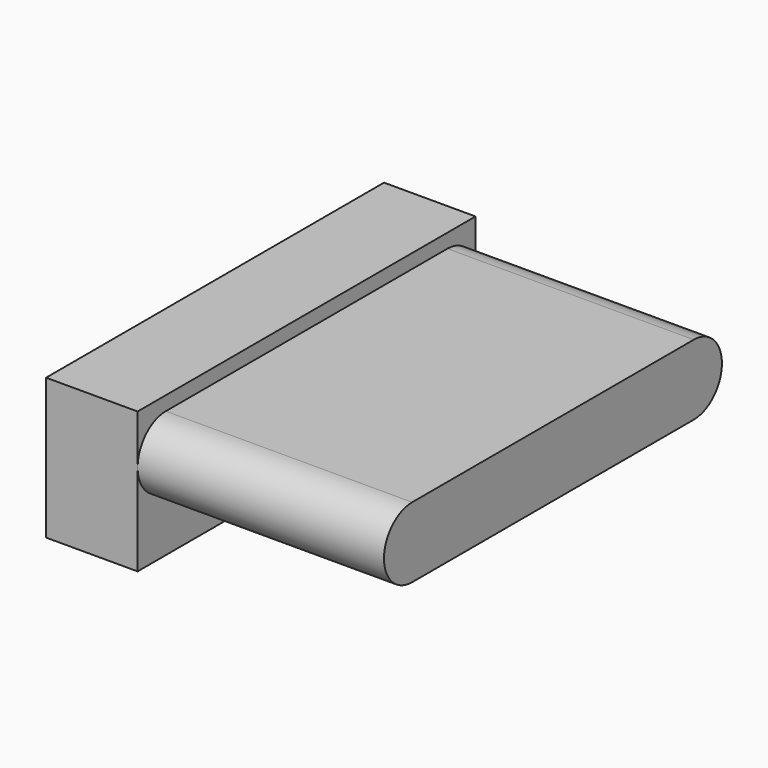
from build123d import *

# Parameters (mm, degrees)
BOX004_W                  = 1.3
BOX004_H                  = 6
BOX004_DEPTH              = 2
EXTRUDE_DEPTH             = 4
FUSION001_PLACEMENT_ANGLE = 180


with BuildPart() as cube001:
    # Box004 → Box004 (new body)
    with BuildSketch(Plane(origin=(0, 16, 0.5), x_dir=(1, 0, 0), z_dir=(0, 0, 1))):
        with Locations((0.65, 3)):
            Rectangle(BOX004_W, BOX004_H)
    extrude(amount=BOX004_DEPTH)


with BuildPart() as fusion001:
    # Sketch011 → Extrude (new body)
    with BuildSketch(Plane.YZ):
        with BuildLine():
            ThreePointArc((14, -1), (13.5, -1.5), (14, -2))
            Line((14, -2), (19, -2))
            ThreePointArc((19, -2), (19.5, -1.5), (19, -1))
            Line((14, -1), (19, -1))
        make_face()
    extrude(amount=EXTRUDE_DEPTH)


with BuildPart() as fusion001_1:
    # Extrude placement: moved
    add(fusion001.part.moved(Location((-3.5, 2.5, 3.3))))

    # Fusion001: union Cube001
    add(cube001.part)


with BuildPart() as fusion001_2:
    # Fusion001 placement: moved
    add(fusion001_1.part.moved(Location((17.5, 38, -1))).rotate(Axis((17.5, 38, -1), (0, 0, 1)), FUSION001_PLACEMENT_ANGLE))


solid = fusion001_2.part
